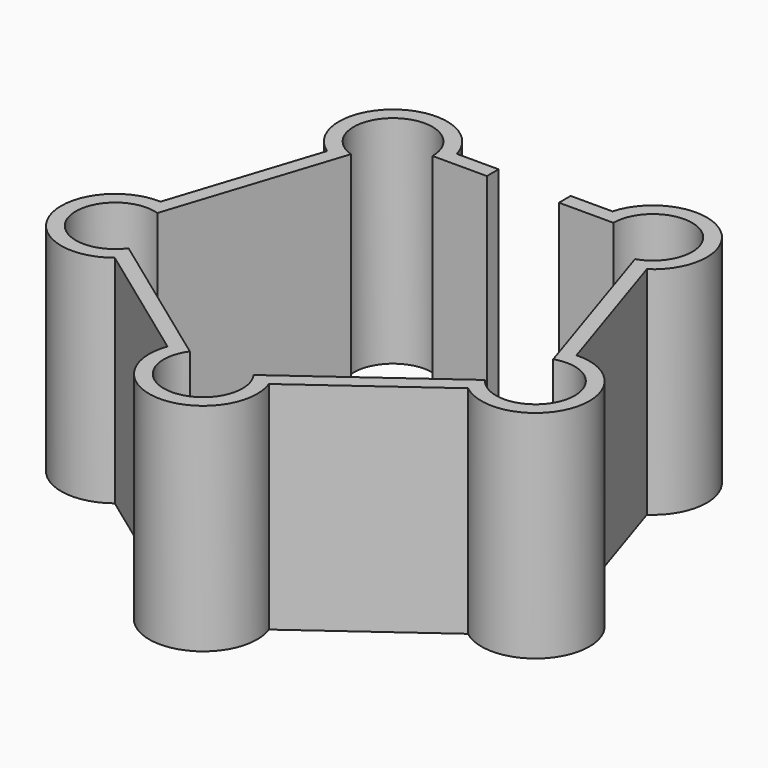
from build123d import *

# Parameters (mm, degrees)
F1_DEPTH = 3000
F2_W     = 1000
F2_H     = 203.2
F3_DEPTH = 3000


with BuildPart() as f1:
    # F0 (on Top) → F1 (new body)
    with BuildSketch(Plane.XY):
        with BuildLine():
            Line((1079.9361502798, 2683.2815729997), (-1079.9361502798, 2683.2815729997))
            ThreePointArc((-1079.9361502798, 2683.2815729997), (-1058.9306862965, 2582.6451165466), (-1051.8847357067, 2480.0815729997))
            ThreePointArc((-1051.8847357067, 2480.0815729997), (-1448.1629520651, 1818.7337826675), (-2218.2338017798, 1856.2599196563))
            Line((-2218.2338017798, 1856.2599196563), (-2885.6710483324, -197.9007061562))
            ThreePointArc((-2885.6710483324, -197.9007061562), (-2374.7336324903, -427.6337829065), (-2165.5107461831, -947.3068660136))
            ThreePointArc((-2165.5107461831, -947.3068660136), (-2240.6133341429, -1274.4360197456), (-2450.8800347736, -1536.049850698))
            Line((-2450.8800347736, -1536.049850698), (-703.5066379412, -2805.5909358019))
            ThreePointArc((-703.5066379412, -2805.5909358019), (0, -2315.5494139723), (703.5066379412, -2805.5909358019))
            Line((703.5066379412, -2805.5909358019), (2450.8800347736, -1536.049850698))
            ThreePointArc((2450.8800347736, -1536.049850698), (2202.2183589618, -715.5441202324), (2885.6710483324, -197.9007061562))
            Line((2885.6710483324, -197.9007061562), (2218.2338017798, 1856.2599196563))
            ThreePointArc((2218.2338017798, 1856.2599196563), (1361.0457964874, 1873.3188272185), (1079.9361502798, 2683.2815729998))
        make_face()
        with BuildLine():
            Line((0, -3316.7184270003), (-703.5066379412, -2805.5909358019))
            ThreePointArc((-703.5066379412, -2805.5909358019), (-132.0417008829, -3803.8345819311), (750, -3065.5494139723))
            ThreePointArc((750, -3065.5494139723), (738.2851679588, -2933.5077130894), (703.5066379412, -2805.5909358019))
            Line((703.5066379412, -2805.5909358019), (0, -3316.7184270003))
        make_face()
        with BuildLine():
            Line((-3154.3866727148, -1024.9223594996), (-2885.6710483324, -197.9007061562))
            ThreePointArc((-2885.6710483324, -197.9007061562), (-3628.8031334045, -1179.0696117948), (-2450.8800347736, -1536.049850698))
            Line((-2450.8800347736, -1536.049850698), (-3154.3866727148, -1024.9223594996))
        make_face()
        with BuildLine():
            ThreePointArc((-2165.5107461831, -947.3068660136), (-2374.7336324903, -427.6337829065), (-2885.6710483324, -197.9007061562))
            Line((-2885.6710483324, -197.9007061562), (-3154.3866727148, -1024.9223594996))
            Line((-3154.3866727148, -1024.9223594996), (-2450.8800347736, -1536.049850698))
            ThreePointArc((-2450.8800347736, -1536.049850698), (-2240.6133341429, -1274.4360197456), (-2165.5107461831, -947.3068660136))
        make_face()
        with BuildLine():
            Line((-1079.9361502798, 2683.2815729997), (-1949.5181773974, 2683.2815729997))
            Line((-1949.5181773974, 2683.2815729997), (-2218.2338017798, 1856.2599196563))
            ThreePointArc((-2218.2338017798, 1856.2599196563), (-1448.1629520651, 1818.7337826675), (-1051.8847357067, 2480.0815729997))
            ThreePointArc((-1051.8847357067, 2480.0815729997), (-1058.9306862965, 2582.6451165466), (-1079.9361502798, 2683.2815729997))
        make_face()
        with BuildLine():
            Line((-2218.2338017798, 1856.2599196563), (-1949.5181773974, 2683.2815729997))
            Line((-1949.5181773974, 2683.2815729997), (-1079.9361502798, 2683.2815729997))
            ThreePointArc((-1079.9361502798, 2683.2815729997), (-2242.7236749261, 3086.844318781), (-2218.2338017798, 1856.2599196563))
        make_face()
        with BuildLine():
            Line((1949.5181773974, 2683.2815729997), (1079.9361502798, 2683.2815729997))
            ThreePointArc((1079.9361502798, 2683.2815729998), (1361.0457964874, 1873.3188272185), (2218.2338017798, 1856.2599196563))
            Line((2218.2338017798, 1856.2599196563), (1949.5181773974, 2683.2815729997))
        make_face()
        with BuildLine():
            ThreePointArc((2551.8847357067, 2480.0815729997), (1904.4482792536, 3223.03562241), (1079.9361502798, 2683.2815729998))
            Line((1079.9361502798, 2683.2815729997), (1949.5181773974, 2683.2815729997))
            Line((1949.5181773974, 2683.2815729997), (2218.2338017798, 1856.2599196563))
            ThreePointArc((2218.2338017798, 1856.2599196563), (2463.232526039, 2126.3597893581), (2551.8847357067, 2480.0815729997))
        make_face()
        with BuildLine():
            Line((3154.3866727148, -1024.9223594996), (2885.6710483324, -197.9007061562))
            ThreePointArc((2885.6710483324, -197.9007061562), (2202.2183589618, -715.5441202324), (2450.8800347736, -1536.049850698))
            Line((2450.8800347736, -1536.049850698), (3154.3866727148, -1024.9223594996))
        make_face()
        with BuildLine():
            ThreePointArc((3665.5107461831, -947.3068660136), (3435.1838292902, -406.5297523207), (2885.6710483324, -197.9007061562))
            Line((2885.6710483324, -197.9007061562), (3154.3866727148, -1024.9223594996))
            Line((3154.3866727148, -1024.9223594996), (2450.8800347736, -1536.049850698))
            ThreePointArc((2450.8800347736, -1536.049850698), (3242.6398999152, -1622.2042780538), (3665.5107461831, -947.3068660136))
        make_face()
        with BuildLine():
            ThreePointArc((703.5066379412, -2805.5909358019), (0, -2315.5494139723), (-703.5066379412, -2805.5909358019))
            Line((-703.5066379412, -2805.5909358019), (0, -3316.7184270003))
            Line((0, -3316.7184270003), (703.5066379412, -2805.5909358019))
        make_face()
    extrude(amount=F1_DEPTH)

    # F2 (on face) → F3 (cut)
    with BuildSketch(Plane.XY.offset(3000)):
        with BuildLine():
            Line((500, 2480.0815729997), (-500, 2480.0815729997))
            Line((-500, 2480.0815729997), (-1255.0847357067, 2480.0815729997))
            ThreePointArc((-1255.0847357067, 2480.0815729997), (-2123.2857116603, 2922.452065524), (-1970.855228231, 1960.0438698896))
            Line((-1970.855228231, 1960.0438698896), (-2746.5402536589, -427.2691629034))
            ThreePointArc((-2746.5402536589, -427.2691629034), (-3435.5484492933, -1116.2773585378), (-2473.1402536589, -1268.7078419671))
            Line((-2473.1402536589, -1268.7078419671), (-442.3704925242, -2744.1484380188))
            ThreePointArc((-442.3704925242, -2744.1484380188), (0, -3612.3494139723), (442.3704925242, -2744.1484380188))
            Line((442.3704925242, -2744.1484380188), (2473.1402536589, -1268.7078419671))
            ThreePointArc((2473.1402536589, -1268.7078419671), (3435.5484492933, -1116.2773585378), (2746.5402536589, -427.2691629034))
            Line((2746.5402536589, -427.2691629034), (1970.855228231, 1960.0438698896))
            ThreePointArc((1970.855228231, 1960.0438698896), (2123.2857116603, 2922.452065524), (1255.0847357067, 2480.0815729997))
            Line((1255.0847357067, 2480.0815729997), (500, 2480.0815729997))
        make_face()
        with Locations((0, 2581.6815729997)):
            Rectangle(F2_W, F2_H)
    extrude(amount=-F3_DEPTH, mode=Mode.SUBTRACT)


solid = f1.part
